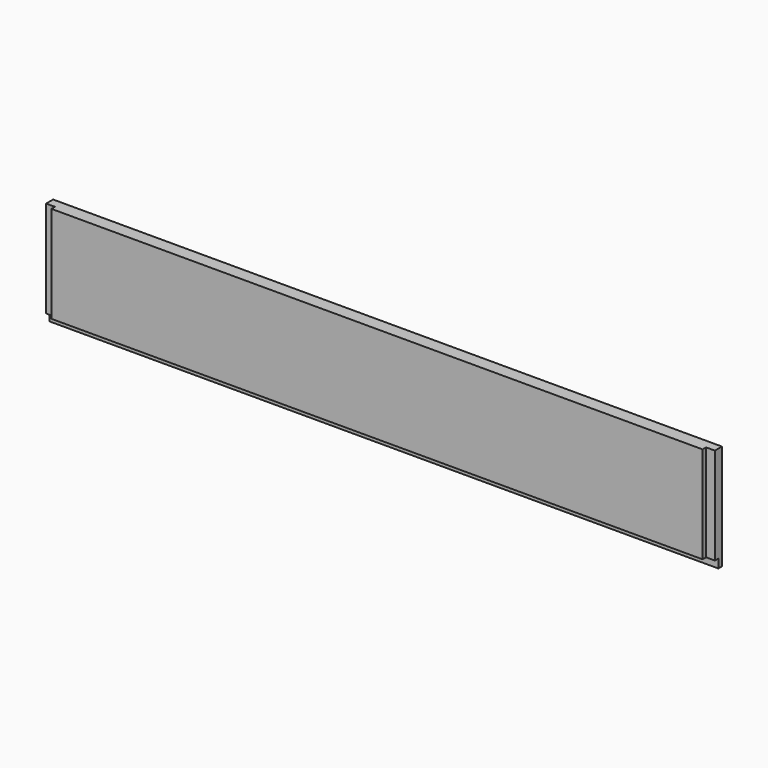
from build123d import *

# Parameters (mm, degrees)
F0_W     = 965.2
F0_H     = 152.4
F1_DEPTH = 19.05
F2_W     = 12.7
F2_H     = 12.7
F3_DEPTH = 965.201
F4_W     = 12.7
F4_H     = 6.35
F5_DEPTH = 152.401
F6_W     = 12.7
F6_H     = 6.35
F7_DEPTH = 152.401


with BuildPart() as f1:
    # F0 (on Front) → F1 (new body)
    with BuildSketch(Plane.XZ):
        with Locations((482.6, 76.2)):
            Rectangle(F0_W, F0_H)
    extrude(amount=F1_DEPTH)

    # F2 (on face) → F3 (cut, through all)
    with BuildSketch(Plane(origin=(0, 0, 0), x_dir=(0, -1, 0), z_dir=(-1, 0, 0))):
        with Locations((12.7, 6.35)):
            Rectangle(F2_W, F2_H)
    extrude(amount=-F3_DEPTH, mode=Mode.SUBTRACT)

    # F4 (on face) → F5 (cut, through all)
    with BuildSketch(Plane(origin=(0, 0, 0), x_dir=(1, 0, 0), z_dir=(0, 0, -1))):
        with Locations((6.35, 15.875)):
            Rectangle(F4_W, F4_H)
    extrude(amount=-F5_DEPTH, mode=Mode.SUBTRACT)

    # F6 (on face) → F7 (cut, through all)
    with BuildSketch(Plane(origin=(0, 0, 0), x_dir=(1, 0, 0), z_dir=(0, 0, -1))):
        with Locations((958.85, 15.875)):
            Rectangle(F6_W, F6_H)
    extrude(amount=-F7_DEPTH, mode=Mode.SUBTRACT)


solid = f1.part
